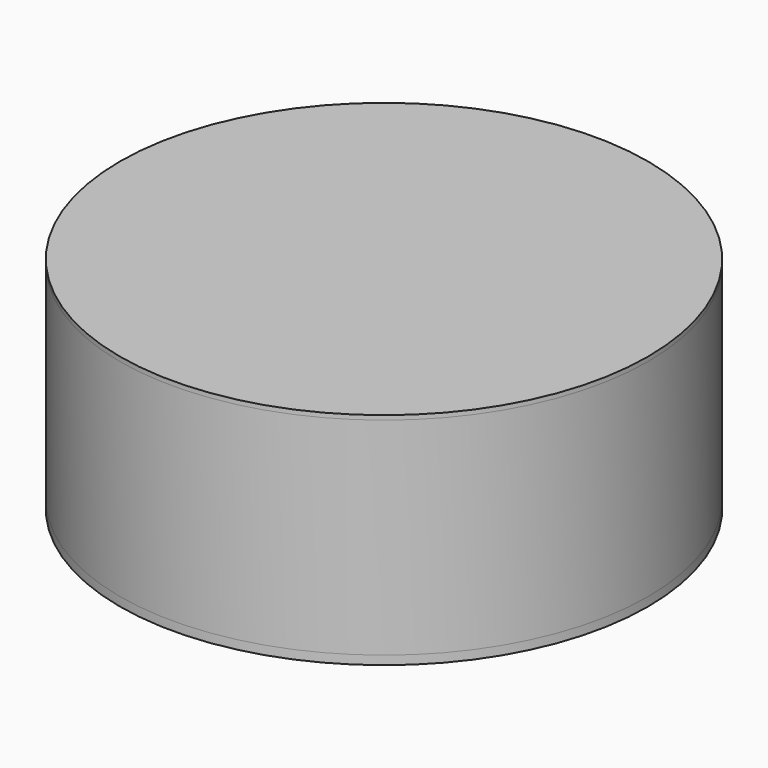
from build123d import *

# Parameters (mm, degrees)
F0_R     = 30
F1_DEPTH = 0.5
F2_W     = 30
F2_H     = 1
F4_R     = 30
F4_R_2   = 29.5
F5_DEPTH = 23.5


with BuildPart() as f1:
    # F0 (on Top) → F1 (new body)
    with BuildSketch(Plane.XY):
        Circle(F0_R)
    extrude(amount=-F1_DEPTH)



with BuildPart() as f3:
    # F2 (on Front) → F3 (revolve)
    with BuildSketch(Plane.XZ):
        with Locations((15, -24.5)):
            Rectangle(F2_W, F2_H)
    revolve(axis=Axis((0, 0, -12.5), (0, 0, -1)))


with BuildPart() as f1_1:
    add(f1.part)

    add(f3.part)  # F5 merges F3
    # F4 (on face) → F5 (join, through all)
    with BuildSketch(Plane(origin=(0, 0, -0.5), x_dir=(1, 0, 0), z_dir=(0, 0, -1))):
        Circle(F4_R)
        Circle(F4_R_2, mode=Mode.SUBTRACT)
    extrude(amount=F5_DEPTH)


solid = f1_1.part
